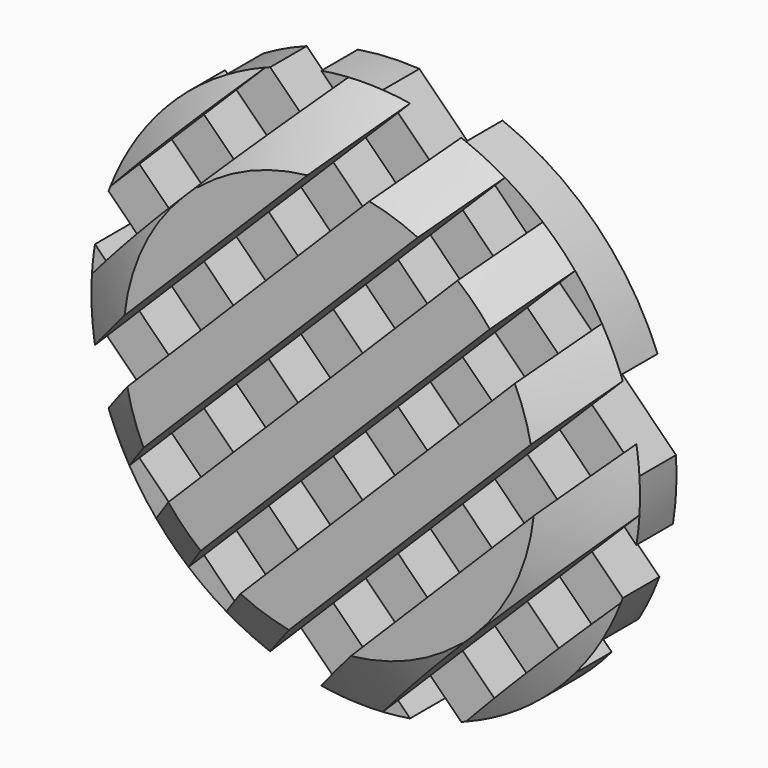
from build123d import *

# Parameters (mm, degrees)
F0_R     = 7.62
F1_DEPTH = 1.27
F3_DEPTH = 1.27
F5_DEPTH = 1.27


with BuildPart() as f1:
    # F0 (on Front) → F1 (new body, symmetric)
    with BuildSketch(Plane.XZ):
        Circle(F0_R)
    extrude(amount=F1_DEPTH, both=True)

    # F2 (on face) → F3 (cut)
    with BuildSketch(Plane.XZ.offset(1.27)):
        with BuildLine():
            Line((7.6050439154, -0.4771865936), (0.4771865936, -7.6050439154))
            ThreePointArc((0.4771865936, -7.6050439154), (1.6514714828, -7.438887144), (2.7857510969, -7.0925306362))
            Line((2.7857510969, -7.0925306362), (7.0925306362, -2.7857510969))
            ThreePointArc((7.0925306362, -2.7857510969), (7.438887144, -1.6514714828), (7.6050439154, -0.4771865936))
        make_face()
        with BuildLine():
            Line((7.1432154673, 2.6530874068), (-2.6530874068, -7.1432154673))
            ThreePointArc((-2.6530874068, -7.1432154673), (-1.9523045555, -7.3656572635), (-1.2333458364, -7.5195251212))
            Line((-1.2333458364, -7.5195251212), (7.5195251212, 1.2333458364))
            ThreePointArc((7.5195251212, 1.2333458364), (7.3656572635, 1.9523045555), (7.1432154673, 2.6530874068))
        make_face()
        with BuildLine():
            Line((5.8184250178, 4.9203994057), (-4.9203994057, -5.8184250178))
            ThreePointArc((-4.9203994057, -5.8184250178), (-4.410994208, -6.2134958032), (-3.8700189421, -6.5640957784))
            Line((-3.8700189421, -6.5640957784), (6.5640957784, 3.8700189421))
            ThreePointArc((6.5640957784, 3.8700189421), (6.2134958032, 4.410994208), (5.8184250178, 4.9203994057))
        make_face()
        with BuildLine():
            Line((3.8700189421, 6.5640957784), (-6.5640957784, -3.8700189421))
            ThreePointArc((-6.5640957784, -3.8700189421), (-6.2134958032, -4.410994208), (-5.8184250178, -4.9203994057))
            Line((-5.8184250178, -4.9203994057), (4.9203994057, 5.8184250178))
            ThreePointArc((4.9203994057, 5.8184250178), (4.410994208, 6.2134958032), (3.8700189421, 6.5640957784))
        make_face()
        with BuildLine():
            Line((1.2333458364, 7.5195251212), (-7.5195251212, -1.2333458364))
            ThreePointArc((-7.5195251212, -1.2333458364), (-7.3656572635, -1.9523045555), (-7.1432154673, -2.6530874068))
            Line((-7.1432154673, -2.6530874068), (2.6530874068, 7.1432154673))
            ThreePointArc((2.6530874068, 7.1432154673), (1.9523045555, 7.3656572635), (1.2333458364, 7.5195251212))
        make_face()
        with BuildLine():
            Line((-2.7857510969, 7.0925306362), (-7.0925306362, 2.7857510969))
            ThreePointArc((-7.0925306362, 2.7857510969), (-7.438887144, 1.6514714828), (-7.6050439154, 0.4771865936))
            Line((-7.6050439154, 0.4771865936), (-0.4771865936, 7.6050439154))
            ThreePointArc((-0.4771865936, 7.6050439154), (-1.6514714828, 7.438887144), (-2.7857510969, 7.0925306362))
        make_face()
    extrude(amount=-F3_DEPTH, mode=Mode.SUBTRACT)

    # F4 (on face) → F5 (cut)
    with BuildSketch(Plane(origin=(0, 1.27, 0), x_dir=(-1, 0, 0), z_dir=(0, 1, 0))):
        with BuildLine():
            ThreePointArc((-7.0925306362, 2.7857510969), (-7.438887144, 1.6514714828), (-7.6050439154, 0.4771865936))
            Line((-7.6050439154, 0.4771865936), (-0.4771865936, 7.6050439154))
            ThreePointArc((-0.4771865936, 7.6050439154), (-1.6514714828, 7.438887144), (-2.7857510969, 7.0925306362))
            Line((-2.7857510969, 7.0925306362), (-7.0925306362, 2.7857510969))
        make_face()
        with BuildLine():
            ThreePointArc((-7.5195251212, -1.2333458364), (-7.3656572635, -1.9523045555), (-7.1432154673, -2.6530874068))
            Line((-7.1432154673, -2.6530874068), (2.6530874068, 7.1432154673))
            ThreePointArc((2.6530874068, 7.1432154673), (1.9523045555, 7.3656572635), (1.2333458364, 7.5195251212))
            Line((1.2333458364, 7.5195251212), (-7.5195251212, -1.2333458364))
        make_face()
        with BuildLine():
            ThreePointArc((-6.5640957784, -3.8700189421), (-6.2134958032, -4.410994208), (-5.8184250178, -4.9203994057))
            Line((-5.8184250178, -4.9203994057), (4.9203994057, 5.8184250178))
            ThreePointArc((4.9203994057, 5.8184250178), (4.410994208, 6.2134958032), (3.8700189421, 6.5640957784))
            Line((3.8700189421, 6.5640957784), (-6.5640957784, -3.8700189421))
        make_face()
        with BuildLine():
            ThreePointArc((-4.9203994057, -5.8184250178), (-4.410994208, -6.2134958032), (-3.8700189421, -6.5640957784))
            Line((-3.8700189421, -6.5640957784), (6.5640957784, 3.8700189421))
            ThreePointArc((6.5640957784, 3.8700189421), (6.2134958032, 4.410994208), (5.8184250178, 4.9203994057))
            Line((5.8184250178, 4.9203994057), (-4.9203994057, -5.8184250178))
        make_face()
        with BuildLine():
            ThreePointArc((-2.6530874068, -7.1432154673), (-1.9523045555, -7.3656572635), (-1.2333458364, -7.5195251212))
            Line((-1.2333458364, -7.5195251212), (7.5195251212, 1.2333458364))
            ThreePointArc((7.5195251212, 1.2333458364), (7.3656572635, 1.9523045555), (7.1432154673, 2.6530874068))
            Line((7.1432154673, 2.6530874068), (-2.6530874068, -7.1432154673))
        make_face()
        with BuildLine():
            Line((2.7857510969, -7.0925306362), (7.0925306362, -2.7857510969))
            ThreePointArc((7.0925306362, -2.7857510969), (7.438887144, -1.6514714828), (7.6050439154, -0.4771865936))
            Line((7.6050439154, -0.4771865936), (0.4771865936, -7.6050439154))
            ThreePointArc((0.4771865936, -7.6050439154), (1.6514714828, -7.438887144), (2.7857510969, -7.0925306362))
        make_face()
    extrude(amount=-F5_DEPTH, mode=Mode.SUBTRACT)

    # F6 (on Top) → F7 (revolve, cut)
    with BuildSketch(Plane.XY):
        Polygon((-5.715, -1.27), (-7.62, 0), (-7.62, -1.27), align=None)
    revolve(axis=Axis((0, -1.3864838984, 0), (0, -1, 0)), mode=Mode.SUBTRACT)


solid = f1.part
